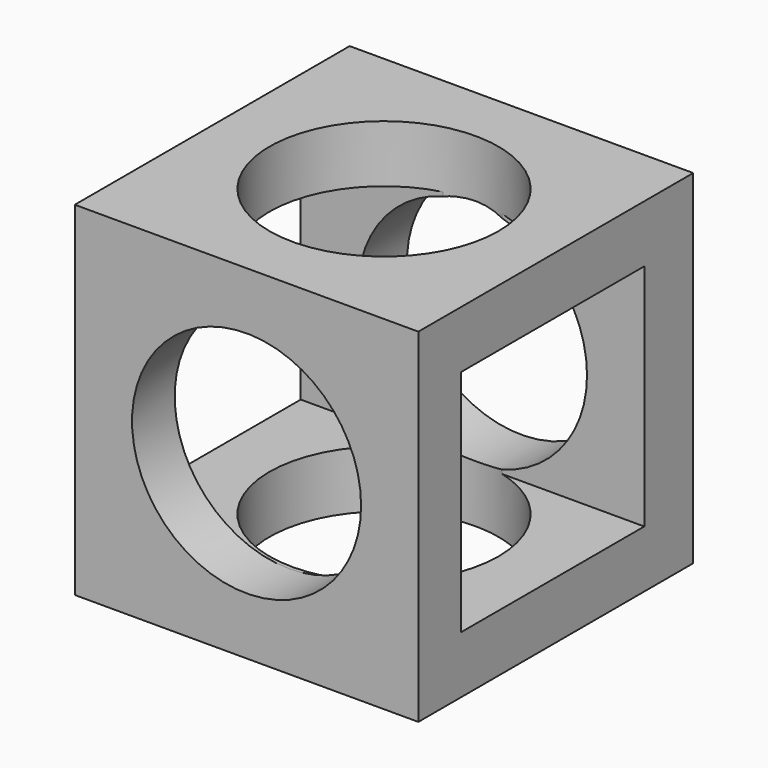
from build123d import *

# Parameters (mm, degrees)
F0_W     = 30
F0_H     = 30
F1_DEPTH = 30
F3_R     = 10
F5_DEPTH = 30.001
F4_W     = 20
F4_H     = 20
F6_DEPTH = 30.001
F7_R     = 10
F8_DEPTH = 30.001


with BuildPart() as f1:
    # F0 (on Front) → F1 (new body)
    with BuildSketch(Plane.XZ):
        Rectangle(F0_W, F0_H)
    extrude(amount=F1_DEPTH)

    # F3 (on face) → F5 (cut, through all)
    with BuildSketch(Plane.XZ.offset(30)):
        Circle(F3_R)
    extrude(amount=-F5_DEPTH, mode=Mode.SUBTRACT)

    # F4 (on face) → F6 (cut, through all)
    with BuildSketch(Plane(origin=(-15, 0, 0), x_dir=(0, -1, 0), z_dir=(-1, 0, 0))):
        with Locations((15.342466, 0)):
            Rectangle(F4_W, F4_H)
    extrude(amount=-F6_DEPTH, mode=Mode.SUBTRACT)

    # F7 (on face) → F8 (cut, through all)
    with BuildSketch(Plane.XY.offset(15)):
        with Locations((0, -15)):
            Circle(F7_R)
    extrude(amount=-F8_DEPTH, mode=Mode.SUBTRACT)


solid = f1.part
